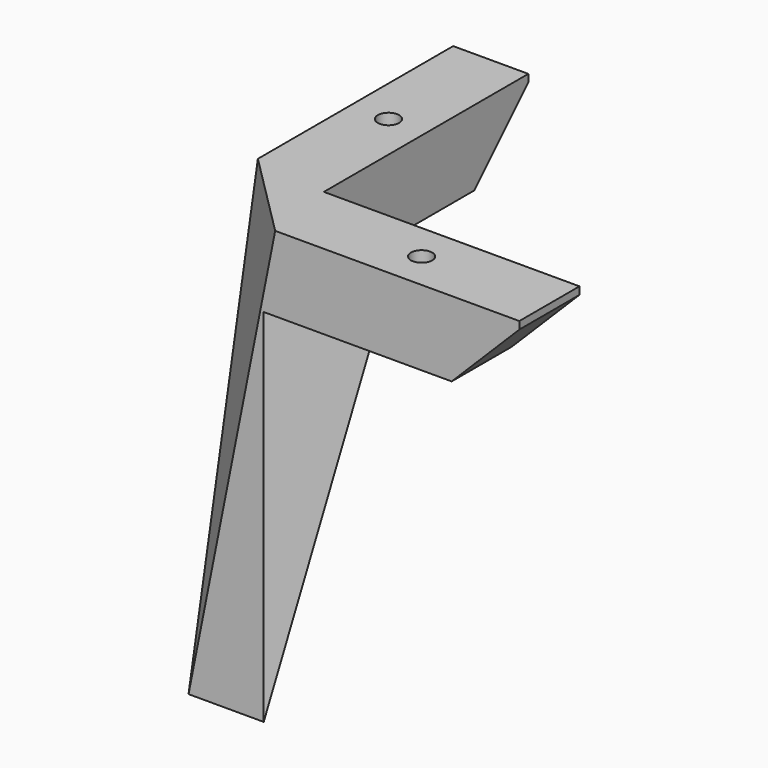
from build123d import *

# Parameters (mm, degrees)
F1_DEPTH        = 15.875
F2_W            = 15.875
F2_H            = 15.875
F3_DEPTH        = 76.2
F6_W            = 105.9110574424
F6_H            = 138.153988868
F7_DEPTH        = 12.8143632709
F20_DEPTH       = 15.875
F22_DEPTH       = 15.875
F24_D           = 4.4958
F24_DEPTH       = 15.875
F24_CSINK_D     = 9.1186
F24_CSINK_ANGLE = 82
F24_TIP         = 1.3506745855


with BuildPart() as f1:
    # F0 (on Top) → F1 (new body)
    with BuildSketch(Plane.XY):
        Polygon((-15.875, 0), (0, 0), (53.975, 0), (53.975, 15.875), (0, 15.875), (0, 69.85), (-15.875, 69.85), align=None)
    extrude(amount=F1_DEPTH)

    # F2 (on face) → F3 (join)
    with BuildSketch(Plane(origin=(0, 0, 0), x_dir=(1, 0, 0), z_dir=(0, 0, -1))):
        with Locations((-7.9375, -7.9375)):
            Rectangle(F2_W, F2_H)
    extrude(amount=F3_DEPTH)

    # F6 (on face) → F7 (cut, through all)
    with BuildSketch(Plane(origin=(-0.3578752004, -0.3578752004, 0.0711293976), x_dir=(-0.6867913388, 0.7139219677, 0.1365030439), z_dir=(0.7002252666, 0.7002252666, -0.139173101))):
        with Locations((-0.5843583494, -35.3862922639)):
            Rectangle(F6_W, F6_H)
    extrude(amount=-F7_DEPTH, mode=Mode.SUBTRACT)

    # F9 (on face) → F10 section 0
    with BuildSketch(Plane(origin=(0, 0, 0), x_dir=(1, 0, 0), z_dir=(0, 0, -1)), mode=Mode.PRIVATE) as f10_s0:
        Polygon((0, -28.575), (0, -15.875), (-15.875, -15.875), align=None)
    loft([f10_s0.sketch, Vertex(-15.875, 15.875, -76.2)])

    # F11 (on face) → F12 section 0
    with BuildSketch(Plane(origin=(0, 0, 0), x_dir=(1, 0, 0), z_dir=(0, 0, -1)), mode=Mode.PRIVATE) as f12_s0:
        Polygon((0, 0), (0, -15.875), (12.7, -15.875), align=None)
    loft([f12_s0.sketch, Vertex(0, 0, -76.2)])

    # F13 (on face) → F14 section 0
    with BuildSketch(Plane(origin=(0, 0, 0), x_dir=(1, 0, 0), z_dir=(0, 0, -1)), mode=Mode.PRIVATE) as f14_s0:
        Polygon((12.7, -15.875), (0, -15.875), (0, -28.575), align=None)
    loft([f14_s0.sketch, Vertex(0, 15.875, 15.875)])

    # F15 (on face) → F16 section 0
    with BuildSketch(Plane(origin=(0, 0, -76.2), x_dir=(1, 0, 0), z_dir=(0, 0, -1)), mode=Mode.PRIVATE) as f16_s0:
        Polygon((0, -15.875), (0, 0), (-15.875, -15.875), align=None)
    loft([f16_s0.sketch, Vertex(0, 15.875, 0)], mode=Mode.SUBTRACT)

    # F14_face (on face) → F18 section 0
    with BuildSketch(Plane(origin=(4.2333333333, 20.1083333333, 0), x_dir=(1, 0, 0), z_dir=(0, 0, -1))):
        Polygon((8.4666666667, 4.2333333333), (-4.2333333333, 4.2333333333), (-4.2333333333, -8.4666666667), align=None)
    # F3_face (on face) → F18 section 1
    with BuildSketch(Plane(origin=(-7.9375, 7.9375, -76.2), x_dir=(1, 0, 0), z_dir=(0, 0, -1))):
        Polygon((-7.9375, -7.9375), (7.9375, 7.9375), (-7.9375, 7.9375), align=None)
    loft()

    # F19 (on face) → F20 (cut, through all)
    with BuildSketch(Plane(origin=(-15.875, 0, 0), x_dir=(0, -1, 0), z_dir=(-1, 0, 0))):
        Polygon((-69.85, 14.2875), (-69.85, 0), (-55.5498, 0), align=None)
    extrude(amount=-F20_DEPTH, mode=Mode.SUBTRACT)

    # F21 (on face) → F22 (cut, through all)
    with BuildSketch(Plane.XZ):
        Polygon((39.6875, 0), (53.975, 0), (53.975, 14.2875), align=None)
    extrude(amount=-F22_DEPTH, mode=Mode.SUBTRACT)

    # F24
    with Locations(Plane(origin=(0, 0, 0), x_dir=(1, 0, 0), z_dir=(0, 0, -1))):
        with Locations((-7.9375, -42.8498), (26.9875, -7.9375)):
            CounterSinkHole(F24_D / 2, F24_CSINK_D / 2, depth=F24_DEPTH, counter_sink_angle=F24_CSINK_ANGLE)
            with Locations((0, 0, -(F24_DEPTH + F24_TIP / 2))):  # 118° drill point
                Cone(0, F24_D / 2, F24_TIP, mode=Mode.SUBTRACT)


solid = f1.part
